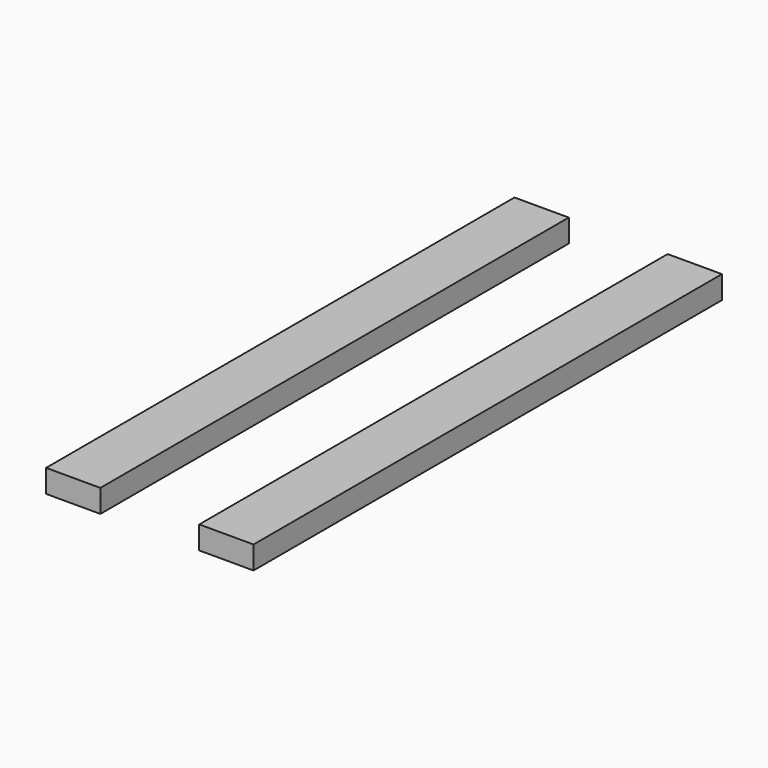
from build123d import *

# Parameters (mm, degrees)
F0_W     = 7.101449
F0_H     = 38.297102
F1_DEPTH = 3


with BuildPart() as f1:
    # F0 (on Top) → F1 (new body)
    with BuildSketch(Plane.XY):
        with Locations((-10.018116, 19.148551)):
            Rectangle(F0_W, F0_H)
        with Locations((-10.018116, -19.148551)):
            Rectangle(F0_W, F0_H)
        Polygon((13.568841, 0), (13.568841, 38.297102), (6.467392, 38.297102), (6.467392, 0), (6.467392, -38.297102), (13.568841, -38.297102), align=None)
    extrude(amount=F1_DEPTH)


solid = f1.part
